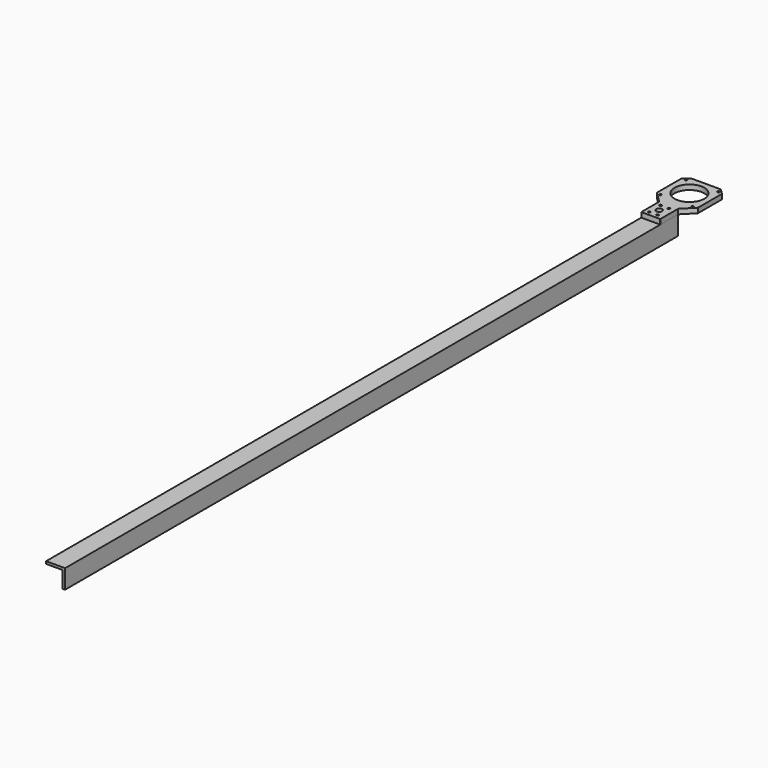
from build123d import *

# Parameters (mm, degrees)
F0_R          = 1.5
F0_R_2        = 20
F1_DEPTH      = 6.6
F3_DEPTH      = 1000
F3_DEPTH_BACK = 30
F4_R          = 1.5
F4_R_2        = 4
F5_DEPTH      = 32.121
F6_R          = 0.5


with BuildPart() as f1:
    # F0 (on Top) → F1 (new body)
    with BuildSketch(Plane.XY):
        Polygon((27.5, 20.229708), (20.229708, 27.5), (-20.229708, 27.5), (-27.5, 20.229708), (-27.5, -20.229708), (-20.229708, -27.5), (-12.76, -34.969708), (-12.76, -64.969708), (12.76, -64.969708), (12.76, -34.969708), (20.229708, -27.5), (27.5, -20.229708), align=None)
        with Locations((-21.75, -21.75)):
            Circle(F0_R, mode=Mode.SUBTRACT)
        with Locations((21.75, -21.75)):
            Circle(F0_R, mode=Mode.SUBTRACT)
        with Locations((-21.75, 21.75)):
            Circle(F0_R, mode=Mode.SUBTRACT)
        Circle(F0_R_2, mode=Mode.SUBTRACT)
        with Locations((21.75, 21.75)):
            Circle(F0_R, mode=Mode.SUBTRACT)
    extrude(amount=F1_DEPTH)


with BuildPart() as f3:
    # F2 (on face) → F3 (new body, two sides)
    with BuildSketch(Plane.XZ.offset(64.969708)) as f3_sk:
        Polygon((12.76, -25.52), (12.76, 0), (-12.76, 0), (-12.76, -3.25), (9.51, -3.25), (9.51, -25.52), align=None)
    extrude(amount=F3_DEPTH)
    extrude(f3_sk.sketch, amount=-F3_DEPTH_BACK)


with BuildPart() as f5_tool:
    # F4 (on face) → F5 (new body, through all)
    with BuildSketch(Plane.XY.offset(6.6)):
        with Locations((-6.38, -40.44804)):
            Circle(F4_R)
        with Locations((4.755, -40.44804)):
            Circle(F4_R)
        with Locations((-6.38, -59.491376)):
            Circle(F4_R)
        with Locations((4.755, -59.491376)):
            Circle(F4_R)
        with Locations((-0.8125, -49.969708)):
            Circle(F4_R_2)
    extrude(amount=-F5_DEPTH)


with BuildPart() as f1_1:
    add(f1.part)

    # F5: cut by f5_tool
    add(f5_tool.part, mode=Mode.SUBTRACT)

    # F6
    f6_edges = [f1_1.edges().sort_by_distance(p)[0] for p in [
        (12.76, -64.969708, 3.3),
        (-12.76, -64.969708, 3.3),
        (27.5, -20.229708, 3.3),
        (12.76, -34.969708, 3.3),
        (-12.76, -34.969708, 3.3),
        (-27.5, -20.229708, 3.3),
        (27.5, 20.229708, 3.3),
        (20.229708, 27.5, 3.3),
        (-20.229708, 27.5, 3.3),
        (-27.5, 20.229708, 3.3),
    ]]
    fillet(f6_edges, radius=F6_R)


with BuildPart() as f3_1:
    add(f3.part)

    # F5: cut by f5_tool
    add(f5_tool.part, mode=Mode.SUBTRACT)


solid = Compound([f1_1.part, f3_1.part])
